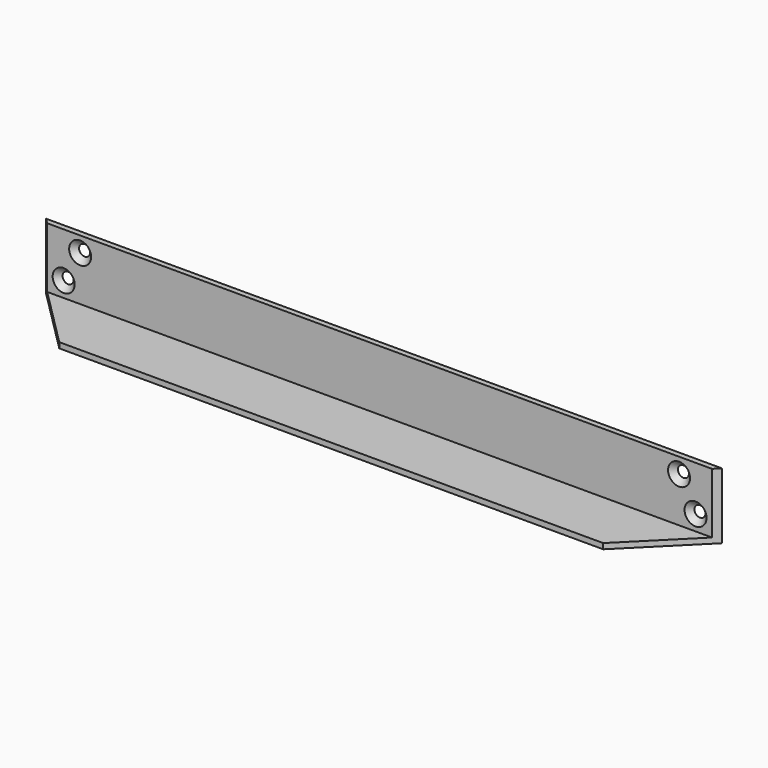
from build123d import *

# Parameters (mm, degrees)
F1_DEPTH       = 615
F3_DEPTH       = 60
F5_D           = 9
F5_CSINK_D     = 20
F5_CSINK_ANGLE = 90


with BuildPart() as f1:
    # F0 (on Right) → F1 (new body)
    with BuildSketch(Plane.YZ):
        Polygon((0, 5), (0, 0), (60, 0), (60, 60), (55, 60), (55, 5), align=None)
    extrude(amount=F1_DEPTH)

    # F2 (on face) → F3 (cut, through all)
    with BuildSketch(Plane(origin=(0, 0, 0), x_dir=(1, 0, 0), z_dir=(0, 0, -1))):
        Polygon((0, 0), (0, -60), (60, 0), align=None)
        Polygon((555, 0), (615, -60), (615, 0), align=None)
    extrude(amount=-F3_DEPTH, mode=Mode.SUBTRACT)

    # F5 (through all)
    with Locations(Plane.XZ.offset(-55)):
        with Locations((35, 46), (20, 19), (580, 46), (595, 19)):
            CounterSinkHole(F5_D / 2, F5_CSINK_D / 2, counter_sink_angle=F5_CSINK_ANGLE)


solid = f1.part
